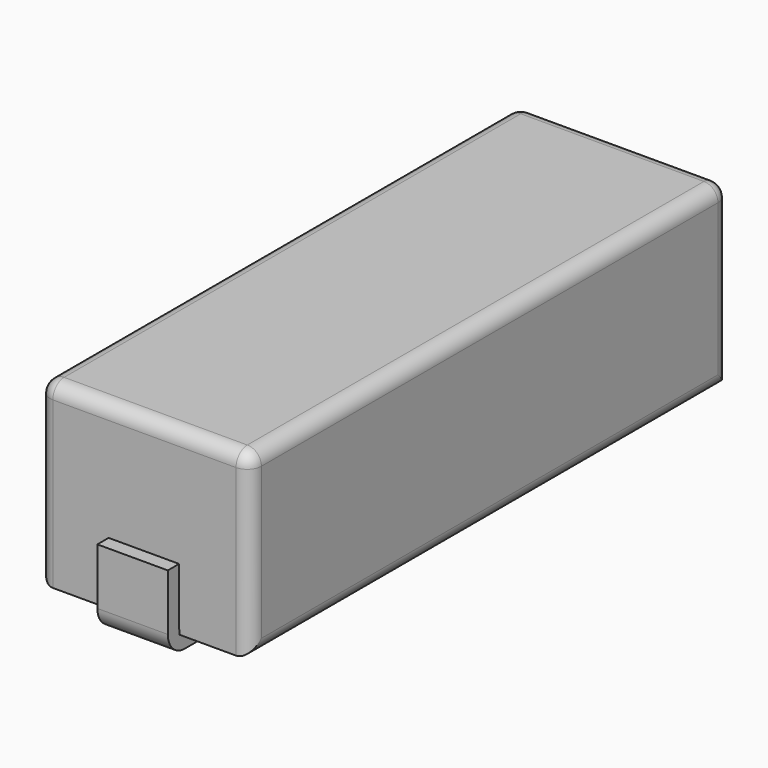
from build123d import *

# Parameters (mm, degrees)
F0_W     = 3
F0_H     = 2.55
F1_DEPTH = 4.25
F3_DEPTH = 0.5
F4_R     = 0.2


with BuildPart() as f1:
    # F0 (on Front) → F1 (new body, symmetric)
    with BuildSketch(Plane.XZ):
        with Locations((0, 1.275)):
            Rectangle(F0_W, F0_H)
    extrude(amount=F1_DEPTH, both=True)

    # F2 (on Right) → F3 (join, symmetric)
    with BuildSketch(Plane.YZ):
        with BuildLine():
            Line((-4.260209, 0.09), (-4.260209, 0.89))
            Line((-4.260209, 0.89), (-4.460209, 0.89))
            Line((-4.460209, 0.89), (-4.460209, 0.09))
            ThreePointArc((-4.460209, 0.09), (-4.372341, -0.122132), (-4.160209, -0.21))
            Line((-4.160209, -0.21), (-2.425445, -0.21))
            Line((-2.425445, -0.21), (-2.425445, -0.01))
            Line((-2.425445, -0.01), (-4.160209, -0.01))
            ThreePointArc((-4.160209, -0.01), (-4.23092, 0.019289), (-4.260209, 0.09))
        make_face()
        with BuildLine():
            Line((4.460209, 0.09), (4.460209, 0.89))
            Line((4.460209, 0.89), (4.260209, 0.89))
            Line((4.260209, 0.89), (4.260209, 0.09))
            ThreePointArc((4.260209, 0.09), (4.23092, 0.019289), (4.160209, -0.01))
            Line((4.160209, -0.01), (2.425445, -0.01))
            Line((2.425445, -0.01), (2.425445, -0.21))
            Line((2.425445, -0.21), (4.160209, -0.21))
            ThreePointArc((4.160209, -0.21), (4.372341, -0.122132), (4.460209, 0.09))
        make_face()
    extrude(amount=F3_DEPTH, both=True)

    # F4
    f4_edges = [f1.edges().sort_by_distance(p)[0] for p in [
        (1.5, 4.25, 1.275),
        (1.5, 0, 2.55),
        (1.5, -4.25, 1.275),
        (1.5, 0, 0),
        (-1.5, 0, 2.55),
        (-1.5, 4.25, 1.275),
        (-1.5, 0, 0),
        (-1.5, -4.25, 1.275),
        (0, 4.25, 2.55),
        (0, -4.25, 2.55),
    ]]
    fillet(f4_edges, radius=F4_R)


solid = f1.part
